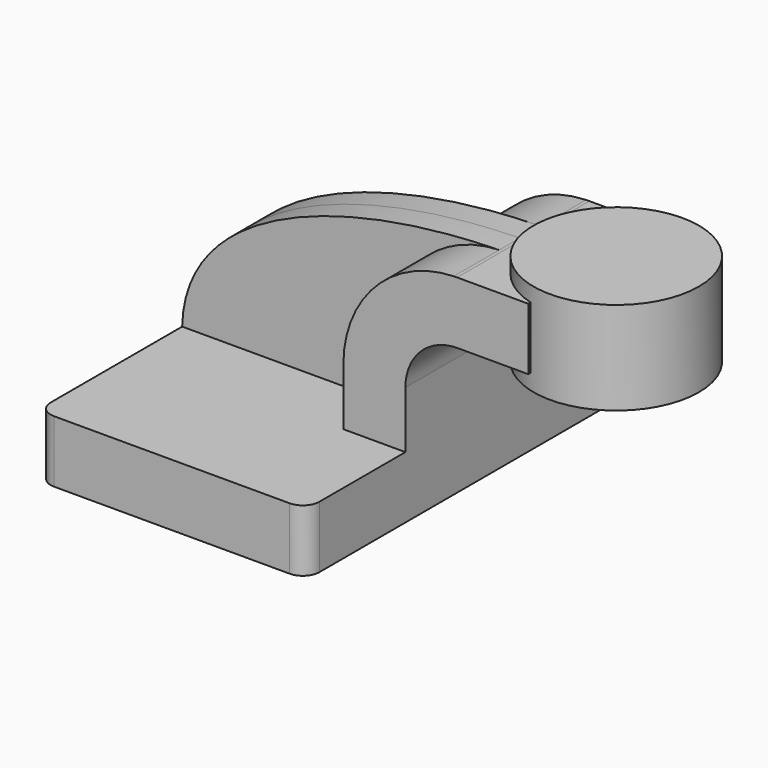
from build123d import *

# Parameters (mm, degrees)
F1_DEPTH = 63.5
F0_W     = 18.70497
F0_H     = 19.05
F2_DEPTH = 25.4
F3_DEPTH = 7.9375
F0_W_2   = 25.4
F0_H_2   = 28.575
F5_R     = 5.08


with BuildPart() as f1:
    # F0 (on Front) → F1 (new body, symmetric)
    with BuildSketch(Plane.XZ):
        Polygon((-41.275, 9.525), (-41.275, -9.525), (41.275, -9.525), (41.275, 9.525), (22.225, 9.525), align=None)
    extrude(amount=F1_DEPTH, both=True)

    # F0 (on Front) → F2 (join, symmetric)
    with BuildSketch(Plane.XZ):
        with BuildLine():
            Line((22.225, 9.525), (41.275, 9.525))
            Line((41.275, 9.525), (41.275, 27.0002))
            ThreePointArc((41.275, 27.0002), (45.92468, 38.22552), (57.15, 42.8752))
            Line((57.15, 42.8752), (60.325, 42.8752))
            Line((60.325, 42.8752), (60.325, 61.9252))
            Line((60.325, 61.9252), (57.15, 61.9252))
            add(Edge.make_bspline(
                [(56.126842, 61.91021), (56.468024, 61.915997), (56.809083, 61.920993), (57.15, 61.9252)],
                knots=[110.703053, 110.703053, 110.703053, 110.703053, 111.504536, 111.504536, 111.504536, 111.504536], degree=3))
            ThreePointArc((56.126842, 61.91021), (32.095166, 51.331475), (22.225, 27.0002))
            Line((22.225, 27.0002), (22.225, 9.525))
        make_face()
        with Locations((69.677485, 52.4002)):
            Rectangle(F0_W, F0_H)
    extrude(amount=F2_DEPTH, both=True)

    # F0 (on Front) → F3 (join, symmetric)
    with BuildSketch(Plane.XZ):
        with BuildLine():
            add(Edge.make_bspline(
                [(-41.275, 9.525), (-40.465312, 45.22587), (9.001882, 61.110903), (56.126842, 61.91021)],
                knots=[0, 0, 0, 0, 110.703053, 110.703053, 110.703053, 110.703053], degree=3))
            Line((-41.275, 9.525), (22.225, 9.525))
            Line((22.225, 9.525), (22.225, 27.0002))
            ThreePointArc((22.225, 27.0002), (32.095166, 51.331475), (56.126842, 61.91021))
        make_face()
    extrude(amount=F3_DEPTH, both=True)

    # F0 (on Front) → F4 (revolve)
    with BuildSketch(Plane.XZ):
        with Locations((98.425, 52.3875)):
            Rectangle(F0_W_2, F0_H_2)
    revolve(axis=Axis((85.725, 0, 52.3875), (0, 0, -1)))

    # F5
    f5_edges = [f1.edges().sort_by_distance(p)[0] for p in [
        (41.275, -63.5, 0),
        (-41.275, -63.5, 0),
        (41.275, 63.5, 0),
        (-41.275, 63.5, 0),
    ]]
    fillet(f5_edges, radius=F5_R)


solid = f1.part
